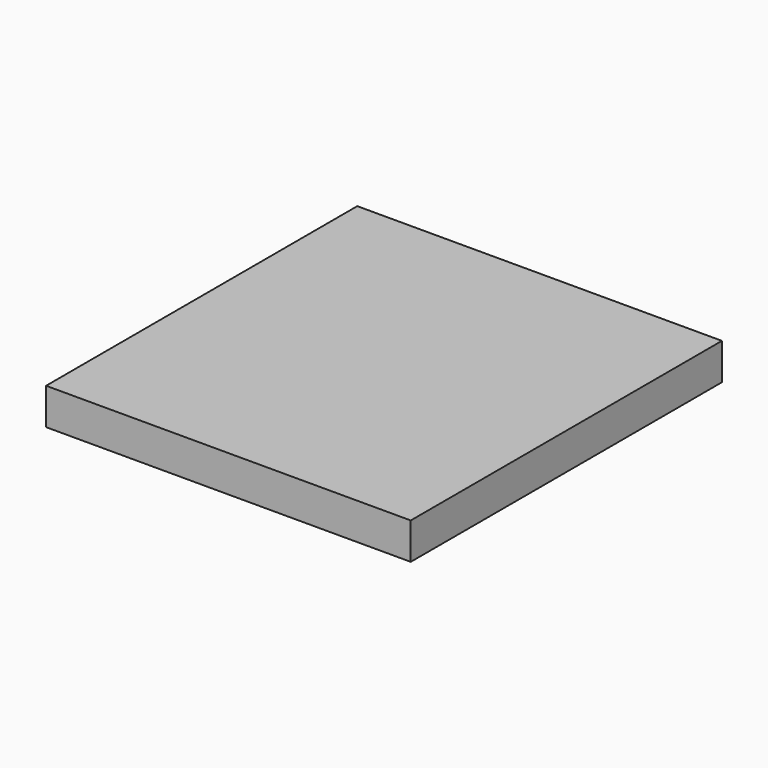
from build123d import *

# Parameters (mm, degrees)
BOX003_W     = 28
BOX003_H     = 30
BOX003_DEPTH = 3
BOX004_W     = 30
BOX004_H     = 32
BOX004_DEPTH = 3


with BuildPart() as pcb_lcd:
    # Box003 → Box003 (new body)
    with BuildSketch(Plane(origin=(-14, -93, -1), x_dir=(1, 0, 0), z_dir=(0, 0, 1))):
        with Locations((14, 15)):
            Rectangle(BOX003_W, BOX003_H)
    extrude(amount=BOX003_DEPTH)


with BuildPart() as cut002:
    # Box004 → Box004 (new body)
    with BuildSketch(Plane(origin=(-15, -94, 0), x_dir=(1, 0, 0), z_dir=(0, 0, 1))):
        with Locations((15, 16)):
            Rectangle(BOX004_W, BOX004_H)
    extrude(amount=BOX004_DEPTH)

    # Cut002: cut pcb_lcd
    add(pcb_lcd.part, mode=Mode.SUBTRACT)


solid = cut002.part
